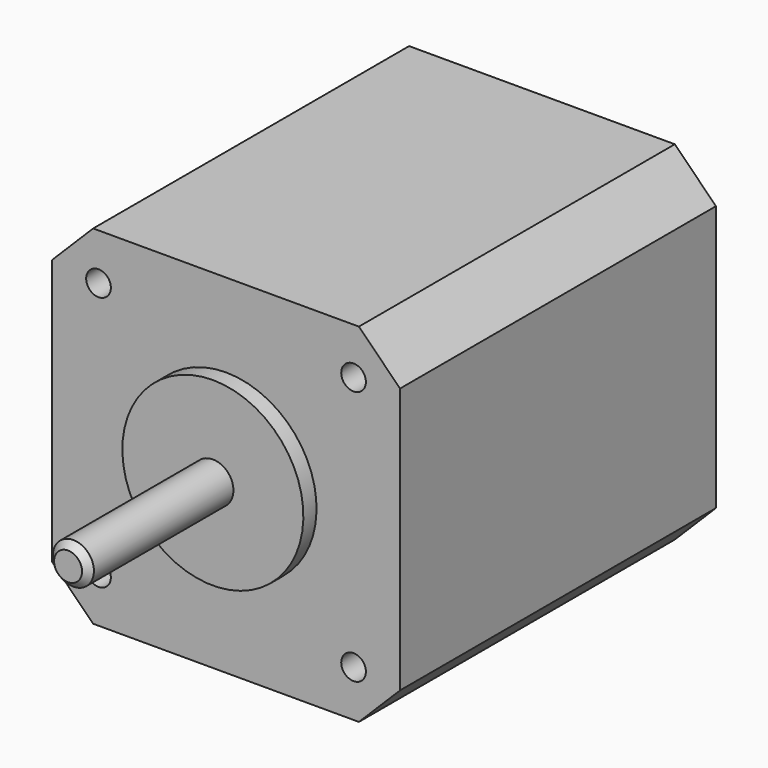
from build123d import *

# Parameters (mm, degrees)
F1_DEPTH = 48
F5_D     = 3
F5_DEPTH = 4.5
F5_TIP   = 0.9012909285


with BuildPart() as f1:
    # F0 (on Front) → F1 (new body)
    with BuildSketch(Plane.XZ):
        Polygon((16.15, 21.15), (-16.15, 21.15), (-21.15, 16.15), (-21.15, -16.15), (-16.15, -21.15), (16.15, -21.15), (21.15, -16.15), (21.15, 16.15), align=None)
    extrude(amount=-F1_DEPTH)

    # F2 (on Right) → F3 (revolve)
    with BuildSketch(Plane.YZ):
        Polygon((-24, 0), (0, 0), (0, 11), (-2, 11), (-2, 2.5), (-23.2, 2.5), (-24, 1.7), align=None)
    revolve(axis=Axis((0, -12, 0), (0, 1, 0)))

    # F5
    with Locations(Plane.XZ):
        with Locations((-15.5, 15.5), (15.5, 15.5), (-15.5, -15.5), (15.5, -15.5)):
            Hole(F5_D / 2, depth=F5_DEPTH)
            with Locations((0, 0, -(F5_DEPTH + F5_TIP / 2))):  # 118° drill point
                Cone(0, F5_D / 2, F5_TIP, mode=Mode.SUBTRACT)


solid = f1.part
